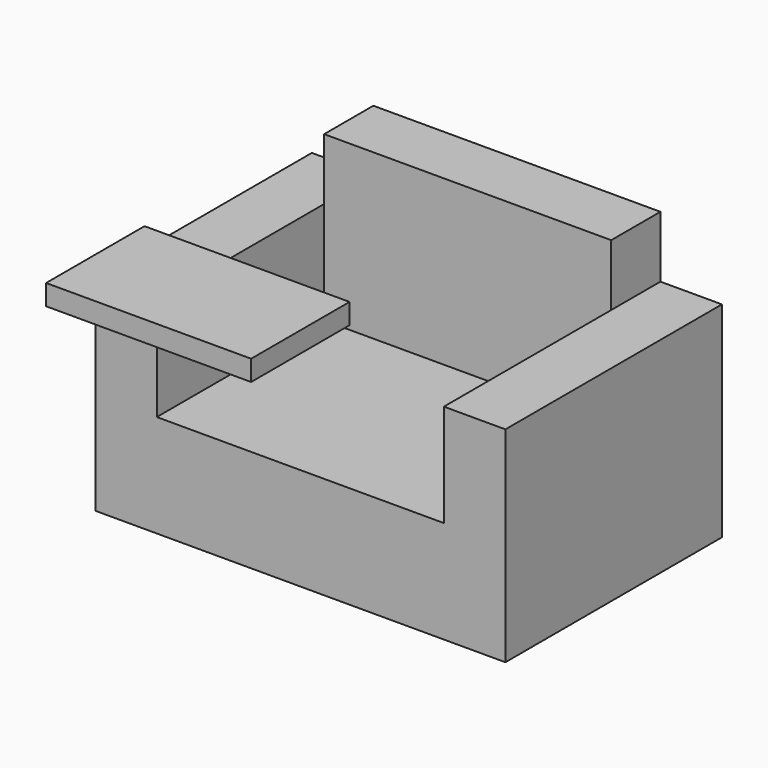
from build123d import *

# Parameters (mm, degrees)
F1_DEPTH = 16.764
F3_DEPTH = 6.35
F4_W     = 17.78
F4_H     = 3.81
F5_DEPTH = 3.81
F7_DEPTH = 1.27


with BuildPart() as f1:
    # F0 (on Front) → F1 (new body)
    with BuildSketch(Plane.XZ):
        Polygon((-12.7, -6.35), (0, -6.35), (12.7, -6.35), (12.7, 0), (-12.7, 0), align=None)
    extrude(amount=F1_DEPTH)

    # F2 (on face) → F3 (join)
    with BuildSketch(Plane.XY):
        Polygon((-12.7, 0), (-12.7, -16.764), (-8.89, -16.764), (-8.89, -3.81), (0, -3.81), (8.89, -3.81), (8.89, -16.764), (12.7, -16.764), (12.7, 0), align=None)
    extrude(amount=F3_DEPTH)

    # F4 (on face) → F5 (join)
    with BuildSketch(Plane.XY.offset(6.35)):
        with Locations((0, -1.905)):
            Rectangle(F4_W, F4_H)
    extrude(amount=F5_DEPTH)

    # F6 (on face) → F7 (join)
    with BuildSketch(Plane.XY.offset(6.35)):
        Polygon((-12.7, -12.954), (-12.7, -16.764), (-12.7, -20.574), (0, -20.574), (0, -12.954), align=None)
    extrude(amount=F7_DEPTH)


solid = f1.part
